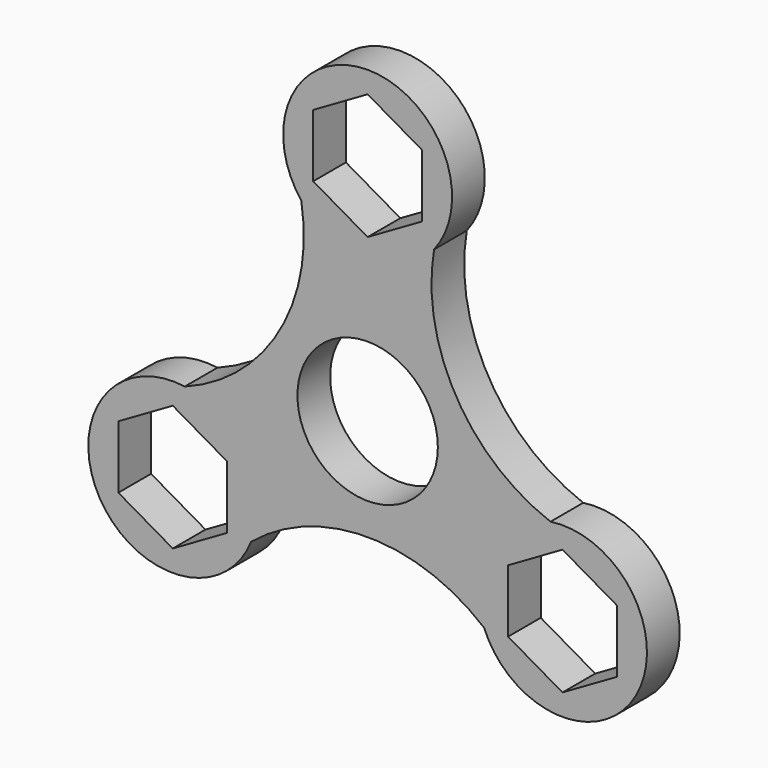
from build123d import *

# Parameters (mm, degrees)
F0_R     = 10.9
F1_DEPTH = 6.35


with BuildPart() as f1:
    # F0 (on Front) → F1 (new body)
    with BuildSketch(Plane.XZ):
        with BuildLine():
            ThreePointArc((28.393429, -4.48834), (13.701562, 7.910601), (10.309698, 26.833601))
            ThreePointArc((10.309698, 26.833601), (0, 48.044178), (-10.309698, 26.833601))
            ThreePointArc((-10.309698, 26.833601), (-13.701562, 7.910601), (-28.393429, -4.48834))
            ThreePointArc((-28.393429, -4.48834), (-41.607478, -24.022089), (-18.083731, -22.345261))
            ThreePointArc((-18.083731, -22.345261), (0, -15.821201), (18.083731, -22.345261))
            ThreePointArc((18.083731, -22.345261), (41.607478, -24.022089), (28.393429, -4.48834))
        make_face()
        Polygon((-21.803127, -12.588041), (-21.803127, -22.345261), (-30.253127, -27.223871), (-38.703127, -22.345261), (-38.703127, -12.588041), (-30.253127, -7.709432), align=None, mode=Mode.SUBTRACT)
        Polygon((21.803127, -12.588041), (30.253127, -7.709432), (38.703127, -12.588041), (38.703127, -22.345261), (30.253127, -27.223871), (21.803127, -22.345261), align=None, mode=Mode.SUBTRACT)
        Circle(F0_R, mode=Mode.SUBTRACT)
        Polygon((0, 44.690522), (8.45, 39.811912), (8.45, 30.054693), (0, 25.176083), (-8.45, 30.054693), (-8.45, 39.811912), align=None, mode=Mode.SUBTRACT)
        with BuildLine():
            ThreePointArc((28.393429, -4.48834), (13.701562, 7.910601), (10.309698, 26.833601))
            ThreePointArc((10.309698, 26.833601), (0, 48.044178), (-10.309698, 26.833601))
            ThreePointArc((-10.309698, 26.833601), (-13.701562, 7.910601), (-28.393429, -4.48834))
            ThreePointArc((-28.393429, -4.48834), (-41.607478, -24.022089), (-18.083731, -22.345261))
            ThreePointArc((-18.083731, -22.345261), (0, -15.821201), (18.083731, -22.345261))
            ThreePointArc((18.083731, -22.345261), (41.607478, -24.022089), (28.393429, -4.48834))
        make_face()
        Polygon((-21.803127, -12.588041), (-21.803127, -22.345261), (-30.253127, -27.223871), (-38.703127, -22.345261), (-38.703127, -12.588041), (-30.253127, -7.709432), align=None, mode=Mode.SUBTRACT)
        Polygon((21.803127, -12.588041), (30.253127, -7.709432), (38.703127, -12.588041), (38.703127, -22.345261), (30.253127, -27.223871), (21.803127, -22.345261), align=None, mode=Mode.SUBTRACT)
        Circle(F0_R, mode=Mode.SUBTRACT)
        Polygon((0, 44.690522), (8.45, 39.811912), (8.45, 30.054693), (0, 25.176083), (-8.45, 30.054693), (-8.45, 39.811912), align=None, mode=Mode.SUBTRACT)
        with BuildLine():
            ThreePointArc((28.393429, -4.48834), (13.701562, 7.910601), (10.309698, 26.833601))
            ThreePointArc((10.309698, 26.833601), (0, 48.044178), (-10.309698, 26.833601))
            ThreePointArc((-10.309698, 26.833601), (-13.701562, 7.910601), (-28.393429, -4.48834))
            ThreePointArc((-28.393429, -4.48834), (-41.607478, -24.022089), (-18.083731, -22.345261))
            ThreePointArc((-18.083731, -22.345261), (0, -15.821201), (18.083731, -22.345261))
            ThreePointArc((18.083731, -22.345261), (41.607478, -24.022089), (28.393429, -4.48834))
        make_face()
        Polygon((-21.803127, -12.588041), (-21.803127, -22.345261), (-30.253127, -27.223871), (-38.703127, -22.345261), (-38.703127, -12.588041), (-30.253127, -7.709432), align=None, mode=Mode.SUBTRACT)
        Polygon((21.803127, -12.588041), (30.253127, -7.709432), (38.703127, -12.588041), (38.703127, -22.345261), (30.253127, -27.223871), (21.803127, -22.345261), align=None, mode=Mode.SUBTRACT)
        Circle(F0_R, mode=Mode.SUBTRACT)
        Polygon((0, 44.690522), (8.45, 39.811912), (8.45, 30.054693), (0, 25.176083), (-8.45, 30.054693), (-8.45, 39.811912), align=None, mode=Mode.SUBTRACT)
        with BuildLine():
            ThreePointArc((28.393429, -4.48834), (13.701562, 7.910601), (10.309698, 26.833601))
            ThreePointArc((10.309698, 26.833601), (0, 48.044178), (-10.309698, 26.833601))
            ThreePointArc((-10.309698, 26.833601), (-13.701562, 7.910601), (-28.393429, -4.48834))
            ThreePointArc((-28.393429, -4.48834), (-41.607478, -24.022089), (-18.083731, -22.345261))
            ThreePointArc((-18.083731, -22.345261), (0, -15.821201), (18.083731, -22.345261))
            ThreePointArc((18.083731, -22.345261), (41.607478, -24.022089), (28.393429, -4.48834))
        make_face()
        Polygon((-21.803127, -12.588041), (-21.803127, -22.345261), (-30.253127, -27.223871), (-38.703127, -22.345261), (-38.703127, -12.588041), (-30.253127, -7.709432), align=None, mode=Mode.SUBTRACT)
        Polygon((21.803127, -12.588041), (30.253127, -7.709432), (38.703127, -12.588041), (38.703127, -22.345261), (30.253127, -27.223871), (21.803127, -22.345261), align=None, mode=Mode.SUBTRACT)
        Circle(F0_R, mode=Mode.SUBTRACT)
        Polygon((0, 44.690522), (8.45, 39.811912), (8.45, 30.054693), (0, 25.176083), (-8.45, 30.054693), (-8.45, 39.811912), align=None, mode=Mode.SUBTRACT)
    extrude(amount=F1_DEPTH)


solid = f1.part
